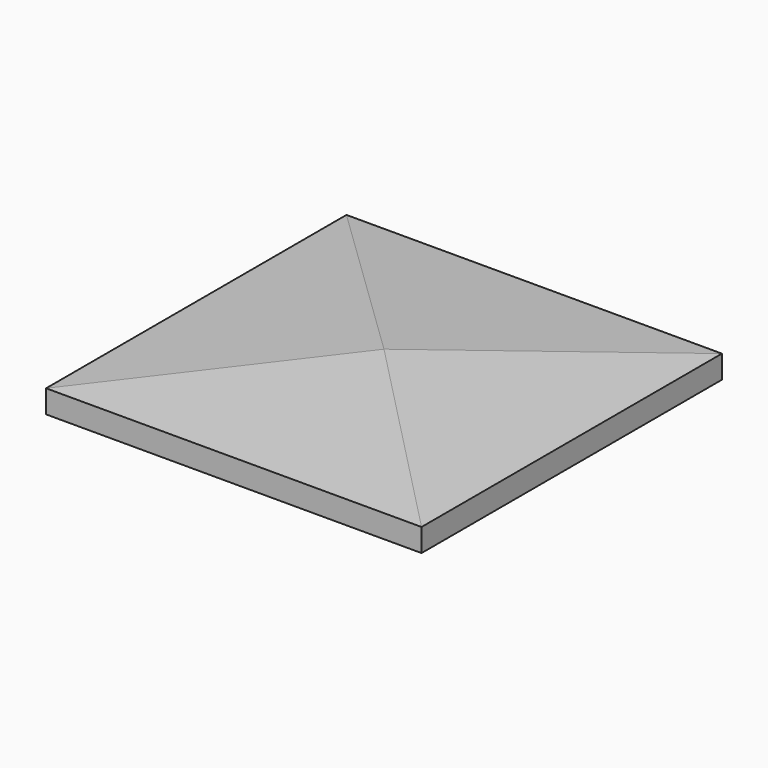
from build123d import *

# Parameters (mm, degrees)
F1_DEPTH = 311.15
F2_W     = 311.15
F2_H     = 19.05
F3_DEPTH = 311.151


with BuildPart() as f1:
    # F0 (on Front) → F1 (new body)
    with BuildSketch(Plane.XZ):
        Polygon((-311.15, 0), (0, 0), (0, 19.05), (-155.575, 34.925), (-311.15, 19.05), align=None)
    extrude(amount=-F1_DEPTH)

    # F2 (on face) → F3 (intersect, through all)
    with BuildSketch(Plane(origin=(-311.15, 0, 0), x_dir=(0, -1, 0), z_dir=(-1, 0, 0))):
        Polygon((-311.15, 19.05), (0, 19.05), (-155.575, 34.925), align=None)
        with Locations((-155.575, 9.525)):
            Rectangle(F2_W, F2_H)
    extrude(amount=-F3_DEPTH, mode=Mode.INTERSECT)


solid = f1.part
